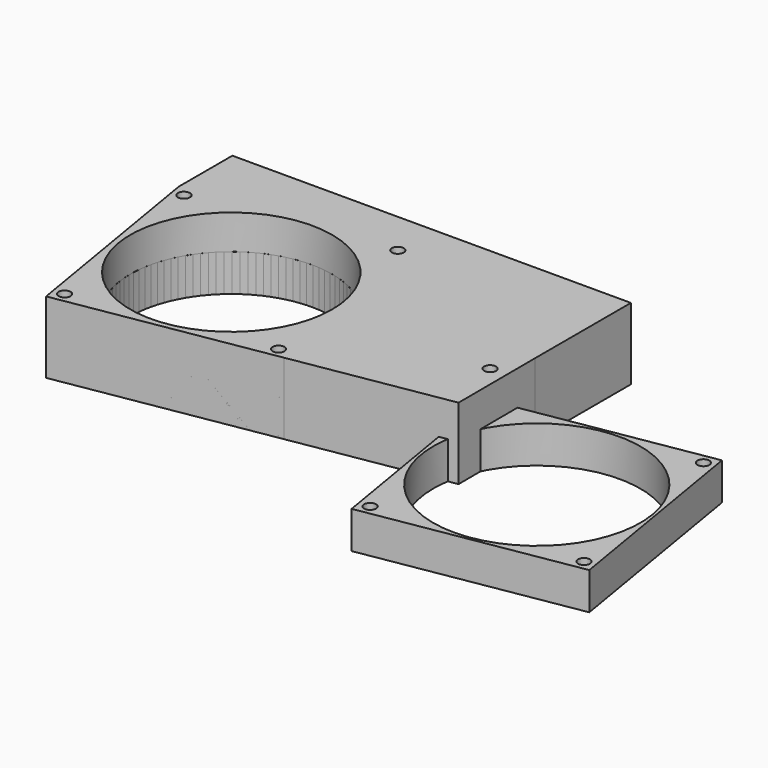
from build123d import *

# Parameters (mm, degrees)
F0_W     = 80
F0_H     = 80
F0_R     = 2.25
F0_R_2   = 38
F1_DEPTH = 14
F0_R_3   = 39
F2_ANGLE = -9.5
F3_ANGLE = -9.5
F4_R     = 2.25
F4_R_2   = 38
F5_DEPTH = 13
F6_R     = 2.25
F7_DEPTH = 13
F8_DEPTH = 14


with BuildPart() as f1:
    # F0 (on Top) → F1 (new body)
    with BuildSketch(Plane.XY):
        with Locations((40, 40)):
            Rectangle(F0_W, F0_H)
        with Locations((4, 4)):
            Circle(F0_R, mode=Mode.SUBTRACT)
        with Locations((76, 4)):
            Circle(F0_R, mode=Mode.SUBTRACT)
        with Locations((40, 40)):
            Circle(F0_R_2, mode=Mode.SUBTRACT)
        with Locations((4, 76)):
            Circle(F0_R, mode=Mode.SUBTRACT)
        with Locations((76, 76)):
            Circle(F0_R, mode=Mode.SUBTRACT)
    extrude(amount=F1_DEPTH)


with BuildPart() as f1b:
    # F0 (on Top) → F1, piece 2 (new body)
    with BuildSketch(Plane.XY):
        with Locations((179, 10)):
            Rectangle(F0_W, F0_H)
        with Locations((143, -26)):
            Circle(F0_R, mode=Mode.SUBTRACT)
        with Locations((215, -26)):
            Circle(F0_R, mode=Mode.SUBTRACT)
        with Locations((179, 10)):
            Circle(F0_R_3, mode=Mode.SUBTRACT)
        with Locations((143, 46)):
            Circle(F0_R, mode=Mode.SUBTRACT)
        with Locations((215, 46)):
            Circle(F0_R, mode=Mode.SUBTRACT)
    extrude(amount=F1_DEPTH)


with BuildPart() as f1_1:
    # F2: moved
    add(f1.part.rotate(Axis((0, 0, 7), (0, 0, -1)), F2_ANGLE))


with BuildPart() as f1b_1:
    # F3: moved
    add(f1b.part.rotate(Axis((139, -30, 7), (0, 0, -1)), F3_ANGLE))


with BuildPart() as f5:
    # F4 (on face) → F5 (new body)
    with BuildSketch(Plane.XY.offset(14)):
        Polygon((65.6990396541, 92.1066565918), (-13.2038084689, 78.902848123), (0, 0), (78.902848123, 13.2038084689), align=None)
        with Locations((3.2849519827, 4.6053328296)):
            Circle(F4_R, mode=Mode.SUBTRACT)
        with Locations((32.8495198271, 46.0533282959)):
            Circle(F4_R_2, mode=Mode.SUBTRACT)
        with Locations((74.2975152934, 16.4887604516)):
            Circle(F4_R, mode=Mode.SUBTRACT)
        with Locations((-8.5984756393, 75.6178961403)):
            Circle(F4_R, mode=Mode.SUBTRACT)
        with Locations((62.4140876714, 87.5013237622)):
            Circle(F4_R, mode=Mode.SUBTRACT)
        Polygon((-13.2038084689, 104.1491553187), (-13.2038084689, 78.902848123), (65.6990396541, 92.1066565918), (78.902848123, 13.2038084689), (136.93322084, 22.9147624453), (136.7961915311, 59.1491553187), (136.7961915311, 104.1491553187), align=None)
    extrude(amount=F5_DEPTH)

    # F6 (on face) → F7 (cut, through all)
    with BuildSketch(Plane.XY.offset(27)):
        with Locations((130.6453645229, 45.6039234996)):
            Circle(F6_R)
        Polygon((136.8953233528, 0), (136.8953233528, 22.9084205809), (0, 0), align=None)
    extrude(amount=-F7_DEPTH, mode=Mode.SUBTRACT)

    # F8 (add): a face of the model
    f8_faces = [f5.faces().sort_by_distance(p)[0] for p in [
        (75.5807369443, 64.4899856199, 14),
    ]]
    extrude(f8_faces, amount=F8_DEPTH)


solid = Compound([f1_1.part, f1b_1.part, f5.part])
